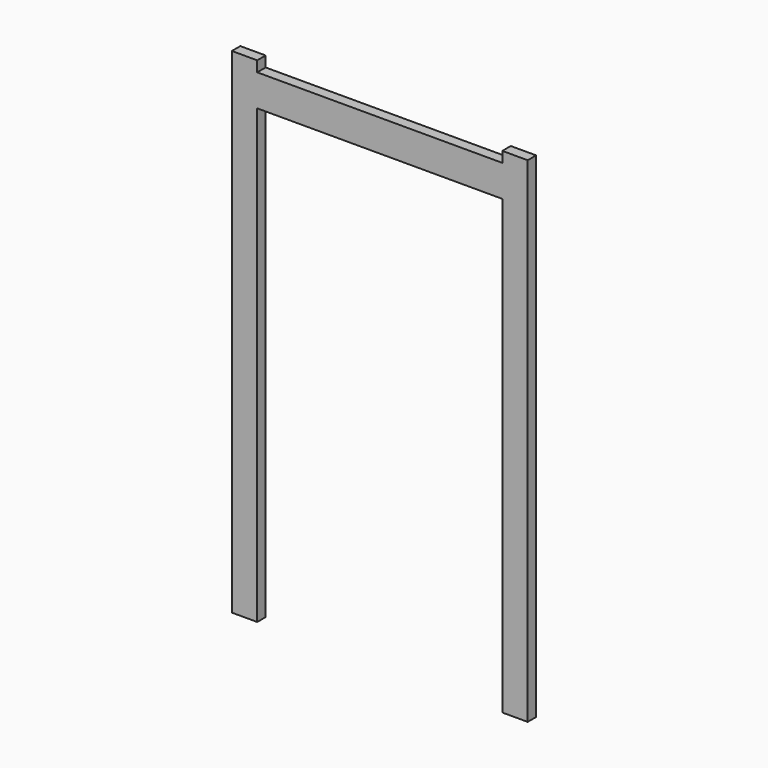
from build123d import *

# Parameters (mm, degrees)
F0_W     = 58
F0_H     = 15
F1_DEPTH = 5


with BuildPart() as f1:
    # F0 (on Front) → F1 (new body)
    with BuildSketch(Plane.XZ):
        with Locations((-29, 105.977764)):
            Rectangle(F0_W, F0_H)
        Polygon((-70, 118.477764), (-70, -115.522236), (-58, -115.522236), (-58, 98.477764), (-58, 113.477764), (-58, 118.477764), align=None)
        with Locations((29, 105.977764)):
            Rectangle(F0_W, F0_H)
        Polygon((58, 113.477764), (58, 98.477764), (58, -115.522236), (70, -115.522236), (70, 118.477764), (58, 118.477764), align=None)
    extrude(amount=F1_DEPTH)


solid = f1.part
